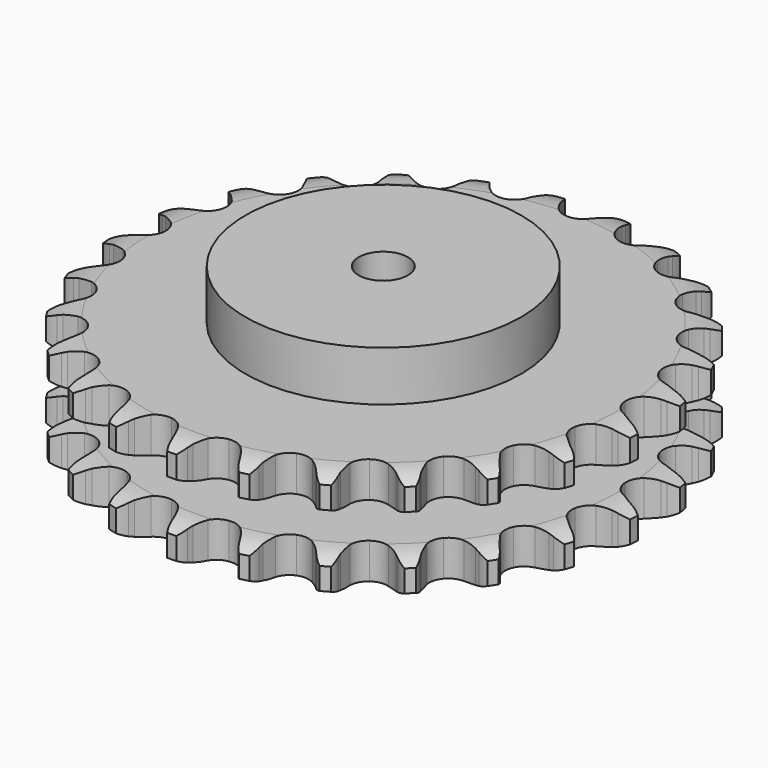
from build123d import *

# Parameters (mm, degrees)
PAD_DEPTH         = 54.6
SKETCH001_R       = 70
PAD001_DEPTH      = 80
SKETCH002_R       = 12.5
POCKET_DEPTH      = 0.001
POCKET_DEPTH_BACK = 80.001


with BuildPart() as part:
    # Sprocket → Pad (new body)
    with BuildSketch(Plane.XY):
        with BuildLine():
            ThreePointArc((-17.1689, 135.905841), (-14.065751, 132.865377), (-11.918442, 129.088735))
            Line((-11.918442, 129.088735), (-10.992349, 126.754452))
            ThreePointArc((-10.992349, 126.754452), (-9.517818, 123.674111), (-7.6349, 120.825013))
            ThreePointArc((-7.6349, 120.825013), (-4.258235, 118.04645), (0, 117.05161))
            ThreePointArc((0, 117.05161), (4.258235, 118.04645), (7.6349, 120.825013))
            ThreePointArc((7.6349, 120.825013), (9.517818, 123.674111), (10.992349, 126.754452))
            Line((10.992349, 126.754452), (11.918442, 129.088735))
            ThreePointArc((11.918442, 129.088735), (14.065751, 132.865377), (17.1689, 135.905841))
            ThreePointArc((17.1689, 135.905841), (19.418426, 132.189177), (20.55906, 127.997171))
            Line((20.55906, 127.997171), (20.875547, 125.505914))
            ThreePointArc((20.875547, 125.505914), (21.537702, 122.155647), (22.652923, 118.927795))
            ThreePointArc((22.652923, 118.927795), (25.232503, 115.396784), (29.109552, 113.374218))
            ThreePointArc((29.109552, 113.374218), (33.481413, 113.278824), (37.442995, 115.13035))
            Line((37.442995, 115.13035), (42.169554, 120.038542))
            ThreePointArc((42.169554, 120.038542), (42.882643, 121.072536), (43.647065, 122.069179))
            ThreePointArc((43.647065, 122.069179), (46.666125, 125.193157), (50.427916, 127.366377))
            ThreePointArc((50.427916, 127.366377), (51.682472, 123.207044), (51.744762, 118.863074))
            Line((51.744762, 118.863074), (51.431754, 116.371377))
            ThreePointArc((51.431754, 116.371377), (51.23993, 112.961694), (51.51738, 109.557907))
            ThreePointArc((51.51738, 109.557907), (53.137791, 105.496314), (56.390043, 102.573108))
            ThreePointArc((56.390043, 102.573108), (60.600831, 101.393472), (64.898408, 102.201624))
            Line((64.898408, 102.201624), (70.697092, 105.780169))
            ThreePointArc((70.697092, 105.780169), (71.644921, 106.60434), (72.633183, 107.379567))
            ThreePointArc((72.633183, 107.379567), (76.334295, 109.65459), (80.51836, 110.824015))
            ThreePointArc((80.51836, 110.824015), (80.699118, 106.48336), (79.679149, 102.260373))
            Line((79.679149, 102.260373), (78.756316, 99.924799))
            ThreePointArc((78.756316, 99.924799), (77.722564, 96.669942), (77.14481, 93.304093))
            ThreePointArc((77.14481, 93.304093), (77.704236, 88.967122), (80.127341, 85.326951))
            ThreePointArc((80.127341, 85.326951), (83.912476, 83.137196), (88.276016, 82.851195))
            Line((88.276016, 82.851195), (94.782471, 84.875238))
            ThreePointArc((94.782471, 84.875238), (95.905485, 85.437801), (97.05549, 85.942903))
            ThreePointArc((97.05549, 85.942903), (101.2061, 87.226022), (105.54954, 87.318173))
            ThreePointArc((105.54954, 87.318173), (104.645142, 83.068935), (102.607003, 79.232277))
            Line((102.607003, 79.232277), (101.132329, 77.199579))
            ThreePointArc((101.132329, 77.199579), (99.321603, 74.304062), (97.924948, 71.187639))
            ThreePointArc((97.924948, 71.187639), (97.388238, 66.847798), (98.829943, 62.719389))
            ThreePointArc((98.829943, 62.719389), (101.951591, 59.657104), (106.106917, 58.29492))
            Line((106.106917, 58.29492), (112.912319, 58.637285))
            ThreePointArc((112.912319, 58.637285), (114.139955, 58.902891), (115.379444, 59.106129))
            ThreePointArc((115.379444, 59.106129), (119.718754, 59.316723), (123.948653, 58.325809))
            ThreePointArc((123.948653, 58.325809), (122.015926, 54.434983), (119.087681, 51.225725))
            Line((119.087681, 51.225725), (117.153825, 49.623625))
            ThreePointArc((117.153825, 49.623625), (114.679902, 47.269385), (112.552102, 44.598204))
            ThreePointArc((112.552102, 44.598204), (110.952979, 40.528182), (111.322696, 36.170937))
            ThreePointArc((111.322696, 36.170937), (113.584713, 32.428537), (117.27073, 30.07576))
            Line((117.27073, 30.07576), (123.94747, 28.714935))
            ThreePointArc((123.94747, 28.714935), (125.202592, 28.666896), (126.453684, 28.555501))
            ThreePointArc((126.453684, 28.555501), (130.709038, 27.680335), (134.559617, 25.66862))
            ThreePointArc((134.559617, 25.66862), (131.720001, 22.380681), (128.085642, 20.000473))
            Line((128.085642, 20.000473), (125.814116, 18.929636))
            ThreePointArc((125.814116, 18.929636), (122.83244, 17.264599), (120.107193, 15.2065))
            ThreePointArc((120.107193, 15.2065), (117.546136, 11.662031), (116.820635, 7.349731))
            ThreePointArc((116.820635, 7.349731), (118.080889, 3.162365), (121.065992, -0.033169))
            Line((121.065992, -0.033169), (127.194546, -3.01168))
            ThreePointArc((127.194546, -3.01168), (128.39829, -3.370346), (129.582373, -3.789375))
            ThreePointArc((129.582373, -3.789375), (133.486393, -5.695309), (136.715706, -8.601423))
            ThreePointArc((136.715706, -8.601423), (133.147624, -11.079881), (129.035512, -12.481483))
            Line((129.035512, -12.481483), (126.569043, -12.953772))
            ThreePointArc((126.569043, -12.953772), (123.266964, -13.824986), (120.115507, -15.140684))
            ThreePointArc((120.115507, -15.140684), (116.753437, -17.936889), (114.978304, -21.933285))
            ThreePointArc((114.978304, -21.933285), (115.157609, -26.302509), (117.254232, -30.140015))
            Line((117.254232, -30.140015), (122.449522, -34.54906))
            ThreePointArc((122.449522, -34.54906), (123.52625, -35.195816), (124.568925, -35.896151))
            ThreePointArc((124.568925, -35.896151), (127.876307, -38.713097), (130.281444, -42.331007))
            ThreePointArc((130.281444, -42.331007), (126.209093, -43.844254), (121.877605, -44.179181))
            Line((121.877605, -44.179181), (119.371172, -44.023246))
            ThreePointArc((119.371172, -44.023246), (115.956171, -44.045896), (112.576523, -44.536524))
            ThreePointArc((112.576523, -44.536524), (108.62469, -46.408767), (105.911463, -49.838152))
            ThreePointArc((105.911463, -49.838152), (104.998553, -54.114701), (106.074958, -58.353053))
            Line((106.074958, -58.353053), (110.010543, -63.915595))
            ThreePointArc((110.010543, -63.915595), (110.892602, -64.809804), (111.728353, -65.747439))
            ThreePointArc((111.728353, -65.747439), (114.231282, -69.298398), (115.661119, -73.400778))
            ThreePointArc((115.661119, -73.400778), (111.340379, -73.853731), (107.061681, -73.100939))
            Line((107.061681, -73.100939), (104.672771, -72.326578))
            ThreePointArc((104.672771, -72.326578), (101.359426, -71.49924), (97.963941, -71.13397))
            ThreePointArc((97.963941, -71.13397), (93.670655, -71.964613), (90.189815, -74.611504))
            ThreePointArc((90.189815, -74.611504), (88.242052, -78.526666), (88.230604, -82.899554))
            Line((88.230604, -82.899554), (90.659197, -89.266079))
            ThreePointArc((90.659197, -89.266079), (91.291165, -90.351554), (91.867479, -91.467574))
            ThreePointArc((91.867479, -91.467574), (93.408685, -95.529426), (93.773381, -99.858508))
            ThreePointArc((93.773381, -99.858508), (89.47574, -99.222707), (85.518677, -97.429496))
            Line((85.518677, -97.429496), (83.397395, -96.085365))
            ThreePointArc((83.397395, -96.085365), (80.393895, -94.460024), (77.195925, -93.261807))
            ThreePointArc((77.195925, -93.261807), (72.830947, -92.998656), (68.80121, -94.696742))
            ThreePointArc((68.80121, -94.696742), (65.940978, -98.004512), (64.842396, -102.237171))
            Line((64.842396, -102.237171), (65.611401, -109.007646))
            ThreePointArc((65.611401, -109.007646), (65.953567, -110.216183), (66.234232, -111.440465))
            ThreePointArc((66.234232, -111.440465), (66.716877, -115.757989), (65.993517, -120.041761))
            ThreePointArc((65.993517, -120.041761), (61.989012, -118.357155), (58.60222, -115.636199))
            Line((58.60222, -115.636199), (56.881853, -113.806756))
            ThreePointArc((56.881853, -113.806756), (54.376921, -111.485538), (51.577405, -109.529661))
            ThreePointArc((51.577405, -109.529661), (47.415004, -108.189253), (43.089572, -108.831834))
            ThreePointArc((43.089572, -108.831834), (39.49659, -111.324375), (37.379903, -115.15085))
            Line((37.379903, -115.15085), (36.440999, -121.899862))
            ThreePointArc((36.440999, -121.899862), (36.471864, -123.155524), (36.439245, -124.411141))
            ThreePointArc((36.439245, -124.411141), (35.833003, -128.713051), (34.067037, -132.682349))
            ThreePointArc((34.067037, -132.682349), (30.607286, -130.054787), (28.00357, -126.577055))
            Line((28.00357, -126.577055), (26.792216, -124.377249))
            ThreePointArc((26.792216, -124.377249), (24.943244, -121.506005), (22.718087, -118.915365))
            ThreePointArc((22.718087, -118.915365), (19.019801, -116.58192), (14.670457, -116.128623))
            ThreePointArc((14.670457, -116.128623), (10.570485, -117.649317), (7.568693, -120.829178))
            Line((7.568693, -120.829178), (4.980875, -127.132662))
            ThreePointArc((4.980875, -127.132662), (4.6985, -128.356551), (4.354647, -129.564608))
            ThreePointArc((4.354647, -129.564608), (2.697609, -133.5806), (0, -136.986016))
            ThreePointArc((0, -136.986016), (-2.697609, -133.5806), (-4.354647, -129.564608))
            Line((-4.354647, -129.564608), (-4.980875, -127.132662))
            ThreePointArc((-4.980875, -127.132662), (-6.057709, -123.891803), (-7.568693, -120.829178))
            ThreePointArc((-7.568693, -120.829178), (-10.570485, -117.649317), (-14.670457, -116.128623))
            ThreePointArc((-14.670457, -116.128623), (-19.019801, -116.58192), (-22.718087, -118.915365))
            Line((-22.718087, -118.915365), (-26.792216, -124.377249))
            ThreePointArc((-26.792216, -124.377249), (-27.370088, -125.492463), (-28.00357, -126.577055))
            ThreePointArc((-28.00357, -126.577055), (-30.607286, -130.054787), (-34.067037, -132.682349))
            ThreePointArc((-34.067037, -132.682349), (-35.833003, -128.713051), (-36.439245, -124.411141))
            Line((-36.439245, -124.411141), (-36.440999, -121.899862))
            ThreePointArc((-36.440999, -121.899862), (-36.678033, -118.493023), (-37.379903, -115.15085))
            ThreePointArc((-37.379903, -115.15085), (-39.49659, -111.324375), (-43.089572, -108.831834))
            ThreePointArc((-43.089572, -108.831834), (-47.415004, -108.189253), (-51.577405, -109.529661))
            Line((-51.577405, -109.529661), (-56.881853, -113.806756))
            ThreePointArc((-56.881853, -113.806756), (-57.718913, -114.743223), (-58.60222, -115.636199))
            ThreePointArc((-58.60222, -115.636199), (-61.989012, -118.357155), (-65.993517, -120.041761))
            ThreePointArc((-65.993517, -120.041761), (-66.716877, -115.757989), (-66.234232, -111.440465))
            Line((-66.234232, -111.440465), (-65.611401, -109.007646))
            ThreePointArc((-65.611401, -109.007646), (-64.993742, -105.648891), (-64.842396, -102.237171))
            ThreePointArc((-64.842396, -102.237171), (-65.940978, -98.004512), (-68.80121, -94.696742))
            ThreePointArc((-68.80121, -94.696742), (-72.830947, -92.998656), (-77.195925, -93.261807))
            Line((-77.195925, -93.261807), (-83.397395, -96.085365))
            ThreePointArc((-83.397395, -96.085365), (-84.441046, -96.784243), (-85.518677, -97.429496))
            ThreePointArc((-85.518677, -97.429496), (-89.47574, -99.222707), (-93.773381, -99.858508))
            ThreePointArc((-93.773381, -99.858508), (-93.408685, -95.529426), (-91.867479, -91.467574))
            Line((-91.867479, -91.467574), (-90.659197, -89.266079))
            ThreePointArc((-90.659197, -89.266079), (-89.225655, -86.16645), (-88.230604, -82.899554))
            ThreePointArc((-88.230604, -82.899554), (-88.242052, -78.526666), (-90.189815, -74.611504))
            ThreePointArc((-90.189815, -74.611504), (-93.670655, -71.964613), (-97.963941, -71.13397))
            Line((-97.963941, -71.13397), (-104.672771, -72.326578))
            ThreePointArc((-104.672771, -72.326578), (-105.857438, -72.743954), (-107.061681, -73.100939))
            ThreePointArc((-107.061681, -73.100939), (-111.340379, -73.853731), (-115.661119, -73.400778))
            ThreePointArc((-115.661119, -73.400778), (-114.231282, -69.298398), (-111.728353, -65.747439))
            Line((-111.728353, -65.747439), (-110.010543, -63.915595))
            ThreePointArc((-110.010543, -63.915595), (-107.851191, -61.269855), (-106.074958, -58.353053))
            ThreePointArc((-106.074958, -58.353053), (-104.998553, -54.114701), (-105.911463, -49.838152))
            ThreePointArc((-105.911463, -49.838152), (-108.62469, -46.408767), (-112.576523, -44.536524))
            Line((-112.576523, -44.536524), (-119.371172, -44.023246))
            ThreePointArc((-119.371172, -44.023246), (-120.622417, -44.132895), (-121.877605, -44.179181))
            ThreePointArc((-121.877605, -44.179181), (-126.209093, -43.844254), (-130.281444, -42.331007))
            ThreePointArc((-130.281444, -42.331007), (-127.876307, -38.713097), (-124.568925, -35.896151))
            Line((-124.568925, -35.896151), (-122.449522, -34.54906))
            ThreePointArc((-122.449522, -34.54906), (-119.700041, -32.523449), (-117.254232, -30.140015))
            ThreePointArc((-117.254232, -30.140015), (-115.157609, -26.302509), (-114.978304, -21.933285))
            ThreePointArc((-114.978304, -21.933285), (-116.753437, -17.936889), (-120.115507, -15.140684))
            Line((-120.115507, -15.140684), (-126.569043, -12.953772))
            ThreePointArc((-126.569043, -12.953772), (-127.808247, -12.748803), (-129.035512, -12.481483))
            ThreePointArc((-129.035512, -12.481483), (-133.147624, -11.079881), (-136.715706, -8.601423))
            ThreePointArc((-136.715706, -8.601423), (-133.486393, -5.695309), (-129.582373, -3.789375))
            Line((-129.582373, -3.789375), (-127.194546, -3.01168))
            ThreePointArc((-127.194546, -3.01168), (-124.027697, -1.733475), (-121.065992, -0.033169))
            ThreePointArc((-121.065992, -0.033169), (-118.080889, 3.162365), (-116.820635, 7.349731))
            ThreePointArc((-116.820635, 7.349731), (-117.546136, 11.662031), (-120.107193, 15.2065))
            Line((-120.107193, 15.2065), (-125.814116, 18.929636))
            ThreePointArc((-125.814116, 18.929636), (-126.963414, 19.436342), (-128.085642, 20.000473))
            ThreePointArc((-128.085642, 20.000473), (-131.720001, 22.380681), (-134.559617, 25.66862))
            ThreePointArc((-134.559617, 25.66862), (-130.709038, 27.680335), (-126.453684, 28.555501))
            Line((-126.453684, 28.555501), (-123.94747, 28.714935))
            ThreePointArc((-123.94747, 28.714935), (-120.562237, 29.165419), (-117.27073, 30.07576))
            ThreePointArc((-117.27073, 30.07576), (-113.584713, 32.428537), (-111.322696, 36.170937))
            ThreePointArc((-111.322696, 36.170937), (-110.952979, 40.528182), (-112.552102, 44.598204))
            Line((-112.552102, 44.598204), (-117.153825, 49.623625))
            ThreePointArc((-117.153825, 49.623625), (-118.141004, 50.400231), (-119.087681, 51.225725))
            ThreePointArc((-119.087681, 51.225725), (-122.015926, 54.434983), (-123.948653, 58.325809))
            ThreePointArc((-123.948653, 58.325809), (-119.718754, 59.316723), (-115.379444, 59.106129))
            Line((-115.379444, 59.106129), (-112.912319, 58.637285))
            ThreePointArc((-112.912319, 58.637285), (-109.521408, 58.231743), (-106.106917, 58.29492))
            ThreePointArc((-106.106917, 58.29492), (-101.951591, 59.657104), (-98.829943, 62.719389))
            ThreePointArc((-98.829943, 62.719389), (-97.388238, 66.847798), (-97.924948, 71.187639))
            Line((-97.924948, 71.187639), (-101.132329, 77.199579))
            ThreePointArc((-101.132329, 77.199579), (-101.895359, 78.197288), (-102.607003, 79.232277))
            ThreePointArc((-102.607003, 79.232277), (-104.645142, 83.068935), (-105.54954, 87.318173))
            ThreePointArc((-105.54954, 87.318173), (-101.2061, 87.226022), (-97.05549, 85.942903))
            Line((-97.05549, 85.942903), (-94.782471, 84.875238))
            ThreePointArc((-94.782471, 84.875238), (-91.598946, 83.639152), (-88.276016, 82.851195))
            ThreePointArc((-88.276016, 82.851195), (-83.912476, 83.137196), (-80.127341, 85.326951))
            ThreePointArc((-80.127341, 85.326951), (-77.704236, 88.967122), (-77.14481, 93.304093))
            Line((-77.14481, 93.304093), (-78.756316, 99.924799))
            ThreePointArc((-78.756316, 99.924799), (-79.247254, 101.080922), (-79.679149, 102.260373))
            ThreePointArc((-79.679149, 102.260373), (-80.699118, 106.48336), (-80.51836, 110.824015))
            ThreePointArc((-80.51836, 110.824015), (-76.334295, 109.65459), (-72.633183, 107.379567))
            Line((-72.633183, 107.379567), (-70.697092, 105.780169))
            ThreePointArc((-70.697092, 105.780169), (-67.920985, 103.791206), (-64.898408, 102.201624))
            ThreePointArc((-64.898408, 102.201624), (-60.600831, 101.393472), (-56.390043, 102.573108))
            ThreePointArc((-56.390043, 102.573108), (-53.137791, 105.496314), (-51.51738, 109.557907))
            Line((-51.51738, 109.557907), (-51.431754, 116.371377))
            ThreePointArc((-51.431754, 116.371377), (-51.619753, 117.613269), (-51.744762, 118.863074))
            ThreePointArc((-51.744762, 118.863074), (-51.682472, 123.207044), (-50.427916, 127.366377))
            ThreePointArc((-50.427916, 127.366377), (-46.666125, 125.193157), (-43.647065, 122.069179))
            Line((-43.647065, 122.069179), (-42.169554, 120.038542))
            ThreePointArc((-42.169554, 120.038542), (-39.975299, 117.421676), (-37.442995, 115.13035))
            ThreePointArc((-37.442995, 115.13035), (-33.481413, 113.278824), (-29.109552, 113.374218))
            ThreePointArc((-29.109552, 113.374218), (-25.232503, 115.396784), (-22.652923, 118.927795))
            Line((-22.652923, 118.927795), (-20.875547, 125.505914))
            ThreePointArc((-20.875547, 125.505914), (-20.748793, 126.755543), (-20.55906, 127.997171))
            ThreePointArc((-20.55906, 127.997171), (-19.418426, 132.189177), (-17.1689, 135.905841))
        make_face()
    extrude(amount=PAD_DEPTH)

    # Sketch → Groove (revolve, cut)
    with BuildSketch(Plane.XZ):
        with BuildLine():
            ThreePointArc((119.698368, 0), (127.181683, 0.887302), (134.25, 3.5))
            Line((134.25, 3.5), (134.25, 14.7))
            ThreePointArc((134.25, 14.7), (127.181683, 17.312698), (119.698368, 18.2))
            Line((70, 18.2), (119.698368, 18.2))
            Line((70, 36.4), (70, 18.2))
            Line((119.698368, 36.4), (70, 36.4))
            ThreePointArc((119.698368, 36.4), (127.181683, 37.287302), (134.25, 39.9))
            Line((134.25, 39.9), (134.25, 51.1))
            ThreePointArc((134.25, 51.1), (127.181683, 53.712698), (119.698368, 54.6))
            Line((119.698368, 54.6), (144.25, 54.6))
            Line((144.25, 54.6), (144.25, 0))
            Line((119.698368, 0), (144.25, 0))
        make_face()
    revolve(axis=Axis((0, 0, 0), (0, 0, 1)), mode=Mode.SUBTRACT)

    # Sketch001 → Pad001 (join)
    with BuildSketch(Plane.XY):
        Circle(SKETCH001_R)
    extrude(amount=PAD001_DEPTH)

    # Sketch002 → Pocket (cut, two sides)
    with BuildSketch(Plane.XY) as pocket_sk:
        Circle(SKETCH002_R)
    extrude(amount=-POCKET_DEPTH, mode=Mode.SUBTRACT)
    extrude(pocket_sk.sketch, amount=POCKET_DEPTH_BACK, mode=Mode.SUBTRACT)


solid = part.part
